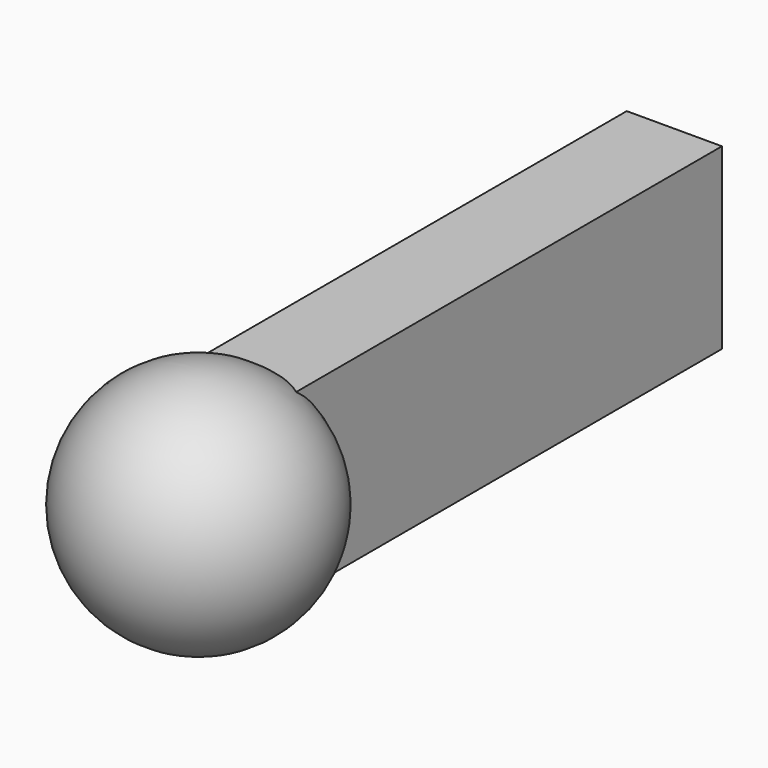
from build123d import *

# Parameters (mm, degrees)
F0_W     = 4.064
F0_H     = 7.62
F1_DEPTH = 25.4


with BuildPart() as f1:
    # F0 (on Front) → F1 (new body)
    with BuildSketch(Plane.XZ):
        Rectangle(F0_W, F0_H)
    extrude(amount=F1_DEPTH)

    # F2 (on face) → F3 (revolve)
    with BuildSketch(Plane.XZ.offset(25.4)):
        with BuildLine():
            Line((0, -5.08), (0, 5.08))
            ThreePointArc((0, 5.08), (-5.08, 0), (0, -5.08))
        make_face()
    revolve(axis=Axis((0, -25.4, 0), (0, 0, -1)))


solid = f1.part
